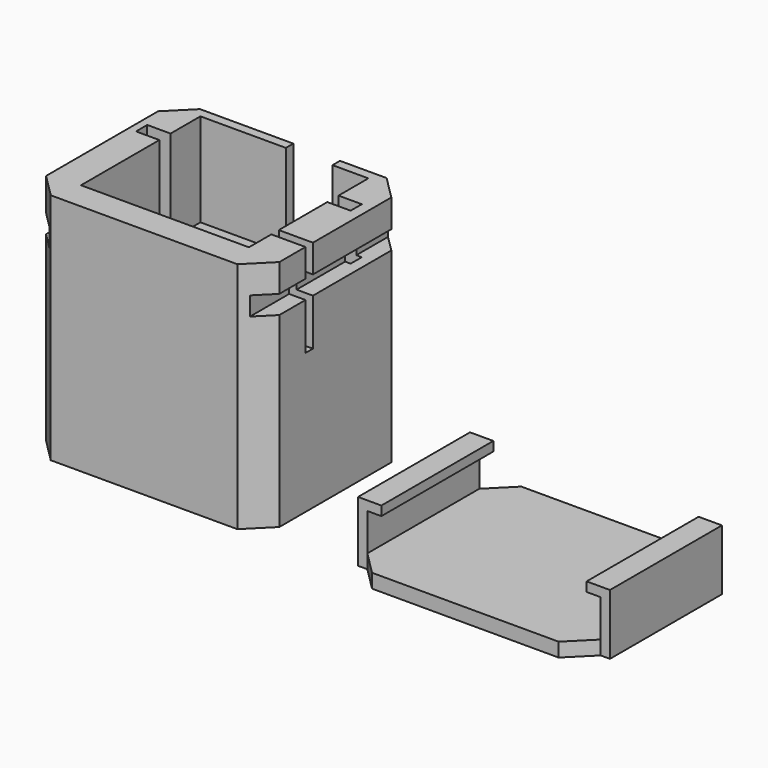
from build123d import *

# Parameters (mm, degrees)
F0_W      = 50
F0_H      = 40
F1_DEPTH  = 50
F3_DEPTH  = 20
F4_W      = 21
F4_H      = 10
F4_W_2    = 8
F5_DEPTH  = 3
F6_W      = 21
F6_H      = 10
F6_W_2    = 8
F7_DEPTH  = 3
F8_DEPTH  = 2
F9_DEPTH  = 2
F10_W     = 10
F10_H     = 11.0885438323
F10_H_2   = 8.9114561677
F11_DEPTH = 5
F12_W     = 2
F12_H     = 4.3249979615
F12_H_2   = 15.6750020385
F13_DEPTH = 10
F14_W     = 40
F14_H     = 30
F15_DEPTH = 25
F16_W     = 50
F16_H     = 40
F17_DEPTH = 3
F18_SIZE  = 5
F19_DEPTH = 2
F20_DEPTH = 2
F21_W     = 2
F21_H     = 30
F22_DEPTH = 10
F23_W     = 30
F23_H     = 2
F24_DEPTH = 3
F25_W     = 30
F25_H     = 2
F26_DEPTH = 3
F27_W     = 35.6263015419
F27_H     = 4
F27_W_2   = 4.3736984581
F28_DEPTH = 3.5
F29_W     = 4.6646985784
F29_H     = 4
F29_W_2   = 35.3353014216
F30_DEPTH = 3.5
F31_SIZE  = 5


with BuildPart() as f1:
    # F0 (on Top) → F1 (new body)
    with BuildSketch(Plane.XY):
        with Locations((-30.3502824157, -28.6558489501)):
            Rectangle(F0_W, F0_H)
    extrude(amount=F1_DEPTH)

    # F2 (on face) → F3 (cut)
    with BuildSketch(Plane.XY.offset(50)):
        Polygon((-51.6693927348, -42.6558489501), (-40.0050915778, -42.6558489501), (-9.6693927348, -42.6558489501), (-9.6693927348, -10.6558489501), (-51.6693927348, -10.6558489501), (-51.6693927348, -40.7105982304), align=None)
    extrude(amount=-F3_DEPTH, mode=Mode.SUBTRACT)

    # F4 (on face) → F5 (join)
    with BuildSketch(Plane(origin=(-9.6693927348, 0, 0), x_dir=(0, -1, 0), z_dir=(-1, 0, 0))):
        with Locations((32.1558489501, 35)):
            Rectangle(F4_W, F4_H)
        with Locations((14.6558489501, 35)):
            Rectangle(F4_W_2, F4_H)
        with Locations((14.6558489501, 45)):
            Rectangle(F4_W_2, F4_H)
        with Locations((32.1558489501, 45)):
            Rectangle(F4_W, F4_H)
    extrude(amount=F5_DEPTH)

    # F6 (on face) → F7 (join)
    with BuildSketch(Plane.YZ.offset(-51.6693927348)):
        with Locations((-32.1558489501, 45)):
            Rectangle(F6_W, F6_H)
        with Locations((-14.6558489501, 45)):
            Rectangle(F6_W_2, F6_H)
        with Locations((-14.6558489501, 35)):
            Rectangle(F6_W_2, F6_H)
        with Locations((-32.1558489501, 35)):
            Rectangle(F6_W, F6_H)
    extrude(amount=F7_DEPTH)

    # F8 (cut): a face of the model
    f8_faces = [f1.faces().sort_by_distance(p)[0] for p in [
        (-9.6693927348, -20.1558489501, 40),
    ]]
    extrude(f8_faces, amount=-F8_DEPTH, mode=Mode.SUBTRACT)

    # F9 (cut): a face of the model
    f9_faces = [f1.faces().sort_by_distance(p)[0] for p in [
        (-51.6693927348, -20.1558489501, 40),
    ]]
    extrude(f9_faces, amount=-F9_DEPTH, mode=Mode.SUBTRACT)

    # F10 (on face) → F11 (cut)
    with BuildSketch(Plane(origin=(0, -8.6558489501, 0), x_dir=(-1, 0, 0), z_dir=(0, 1, 0))):
        with Locations((25.3502824157, 35.5442719162)):
            Rectangle(F10_W, F10_H)
        with Locations((25.3502824157, 45.5442719162)):
            Rectangle(F10_W, F10_H_2)
    extrude(amount=-F11_DEPTH, mode=Mode.SUBTRACT)

    # F12 (on face) → F13 (cut)
    with BuildSketch(Plane.YZ.offset(-5.3502824157)):
        with Locations((-35.6558489501, 47.8375010192)):
            Rectangle(F12_W, F12_H)
        with Locations((-35.6558489501, 37.8375010192)):
            Rectangle(F12_W, F12_H_2)
    extrude(amount=-F13_DEPTH, mode=Mode.SUBTRACT)

    # F14 (on face) → F15 (cut)
    with BuildSketch(Plane(origin=(0, 0, 0), x_dir=(1, 0, 0), z_dir=(0, 0, -1))):
        with Locations((-30.3502824157, 28.6558489501)):
            Rectangle(F14_W, F14_H)
    extrude(amount=-F15_DEPTH, mode=Mode.SUBTRACT)

    # F27 (on face) → F28 (cut)
    with BuildSketch(Plane(origin=(-55.3502824157, 0, 0), x_dir=(0, -1, 0), z_dir=(-1, 0, 0))):
        with Locations((30.8426981792, 41)):
            Rectangle(F27_W, F27_H)
        with Locations((10.8426981792, 41)):
            Rectangle(F27_W_2, F27_H)
    extrude(amount=-F28_DEPTH, mode=Mode.SUBTRACT)

    # F29 (on face) → F30 (cut)
    with BuildSketch(Plane.YZ.offset(-5.3502824157)):
        with Locations((-10.9881982394, 42)):
            Rectangle(F29_W, F29_H)
        with Locations((-30.9881982394, 42)):
            Rectangle(F29_W_2, F29_H)
    extrude(amount=-F30_DEPTH, mode=Mode.SUBTRACT)

    # F31
    f31_edges = [f1.edges().sort_by_distance(p)[0] for p in [
        (-5.350282, -8.655849, 20),
        (-5.350282, -48.655849, 20),
        (-55.350282, -8.655849, 19.5),
        (-55.350282, -48.655849, 19.5),
    ]]
    chamfer(f31_edges, length=F31_SIZE)


with BuildPart() as f17:
    # F16 (on Top) → F17 (new body)
    with BuildSketch(Plane.XY):
        with Locations((40.7204538584, -31.4069162309)):
            Rectangle(F16_W, F16_H)
    extrude(amount=F17_DEPTH)

    # F18
    f18_edges = [f17.edges().sort_by_distance(p)[0] for p in [
        (65.720454, -11.406916, 1.5),
        (65.720454, -51.406916, 1.5),
        (15.720454, -51.406916, 1.5),
        (15.720454, -11.406916, 1.5),
    ]]
    chamfer(f18_edges, length=F18_SIZE)

    # F19 (add): faces of the model
    f19_faces = [f17.faces().sort_by_distance(p)[0] for p in [
        (65.7204538584, -31.4069162309, 1.5),
        (15.7204538584, -31.4069162309, 1.5),
    ]]
    extrude(f19_faces, amount=F19_DEPTH, dir=(1, 0, 0))

    # F20 (add): a face of the model
    f20_faces = [f17.faces().sort_by_distance(p)[0] for p in [
        (15.7204538584, -31.4069162309, 1.5),
    ]]
    extrude(f20_faces, amount=F20_DEPTH)

    # F21 (on face) → F22 (join)
    with BuildSketch(Plane.XY.offset(3)):
        with Locations((66.7204538584, -31.4069162309)):
            Rectangle(F21_W, F21_H)
        with Locations((14.7204538584, -31.4069162309)):
            Rectangle(F21_W, F21_H)
    extrude(amount=F22_DEPTH)

    # F23 (on face) → F24 (join)
    with BuildSketch(Plane(origin=(65.7204538584, 0, 0), x_dir=(0, -1, 0), z_dir=(-1, 0, 0))):
        with Locations((31.4069162309, 12)):
            Rectangle(F23_W, F23_H)
    extrude(amount=F24_DEPTH)

    # F25 (on face) → F26 (join)
    with BuildSketch(Plane.YZ.offset(15.7204538584)):
        with Locations((-31.4069162309, 12)):
            Rectangle(F25_W, F25_H)
    extrude(amount=F26_DEPTH)


solid = Compound([f1.part, f17.part])
